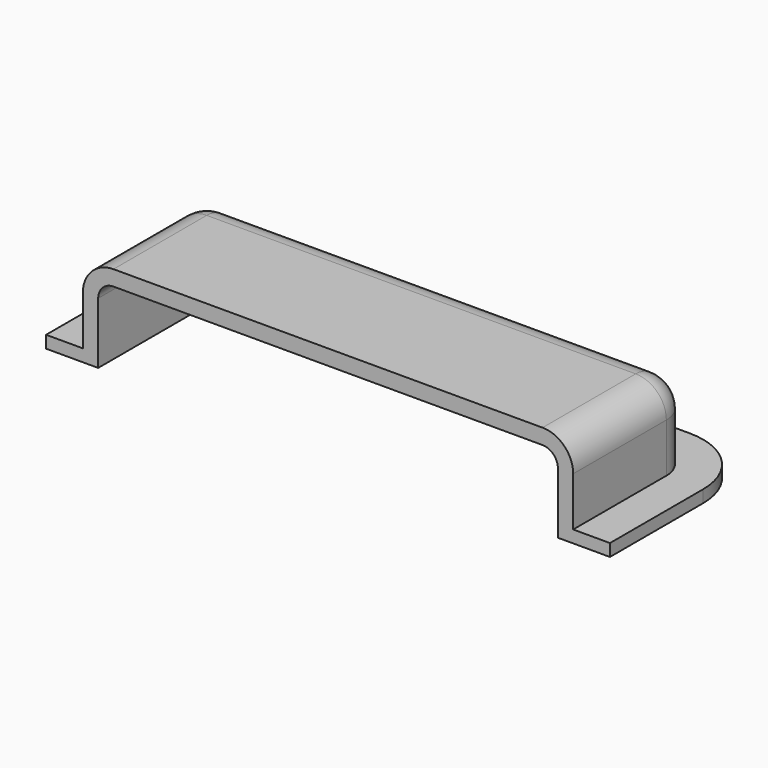
from build123d import *

# Parameters (mm, degrees)
F1_DEPTH = 2
F3_DEPTH = 15
F4_R     = 5
F5_T     = -2.5
F7_DEPTH = 25


with BuildPart() as f1:
    # F0 (on Top) → F1 (new body)
    with BuildSketch(Plane.XY):
        with BuildLine():
            Line((-46, 19), (-46, 0))
            Line((-46, 0), (-40, 0))
            Line((-40, 0), (-40, 19))
            ThreePointArc((-40, 19), (-38.5355339059, 22.5355339059), (-35, 24))
            Line((-35, 24), (35, 24))
            ThreePointArc((35, 24), (38.5355339059, 22.5355339059), (40, 19))
            Line((40, 19), (40, 0))
            Line((40, 0), (46, 0))
            Line((46, 0), (46, 19))
            ThreePointArc((46, 19), (42.7781745931, 26.7781745931), (35, 30))
            Line((35, 30), (-35, 30))
            ThreePointArc((-35, 30), (-42.7781745931, 26.7781745931), (-46, 19))
        make_face()
    extrude(amount=F1_DEPTH)

    # F2 (on Top) → F3 (join)
    with BuildSketch(Plane.XY):
        with BuildLine():
            Line((-40, 0), (40, 0))
            Line((40, 0), (40, 19))
            ThreePointArc((40, 19), (38.5355339059, 22.5355339059), (35, 24))
            Line((35, 24), (-35, 24))
            ThreePointArc((-35, 24), (-38.5355339059, 22.5355339059), (-40, 19))
            Line((-40, 19), (-40, 0))
        make_face()
    extrude(amount=F3_DEPTH)

    # F4
    f4_edges = [f1.edges().sort_by_distance(p)[0] for p in [
        (-40, 9.5, 15),
    ]]
    fillet(f4_edges, radius=F4_R)

    # F5
    f5_openings = [f1.faces().sort_by_distance(p)[0] for p in [
        (0, 0, 7.31497),
    ]]
    offset(amount=F5_T, openings=f5_openings)

    # F6 (on face) → F7 (cut)
    with BuildSketch(Plane.XY.offset(2.5)):
        with BuildLine():
            ThreePointArc((37.5, 19), (36.767766953, 20.767766953), (35, 21.5))
            Line((35, 21.5), (-35, 21.5))
            ThreePointArc((-35, 21.5), (-36.767766953, 20.767766953), (-37.5, 19))
            Line((-37.5, 19), (-37.5, 0))
            Line((-37.5, 0), (37.5, 0))
            Line((37.5, 0), (37.5, 19))
        make_face()
    extrude(amount=-F7_DEPTH, mode=Mode.SUBTRACT)


solid = f1.part
